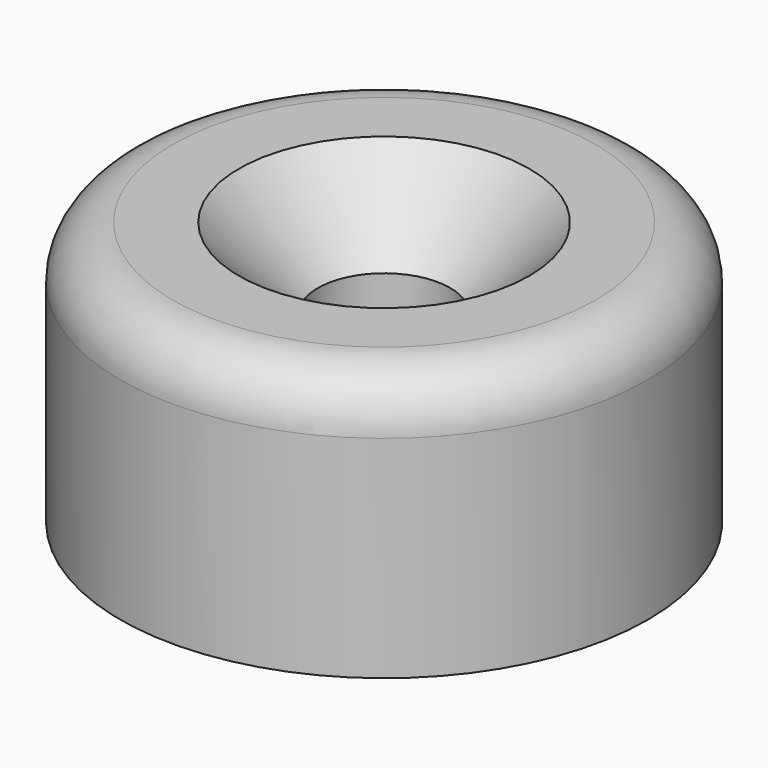
from build123d import *

# Parameters (mm, degrees)
F0_R     = 10
F0_R_2   = 2.5
F1_DEPTH = 10
F2_SIZE  = 3
F3_R     = 2


with BuildPart() as f1:
    # F0 (on Top) → F1 (new body)
    with BuildSketch(Plane.XY):
        Circle(F0_R)
        Circle(F0_R_2, mode=Mode.SUBTRACT)
    extrude(amount=F1_DEPTH)

    # F2
    f2_edges = [f1.edges().sort_by_distance(p)[0] for p in [
        (-2.5, 0, 10),
    ]]
    chamfer(f2_edges, length=F2_SIZE)

    # F3
    f3_edges = [f1.edges().sort_by_distance(p)[0] for p in [
        (-10, 0, 10),
    ]]
    fillet(f3_edges, radius=F3_R)


solid = f1.part
